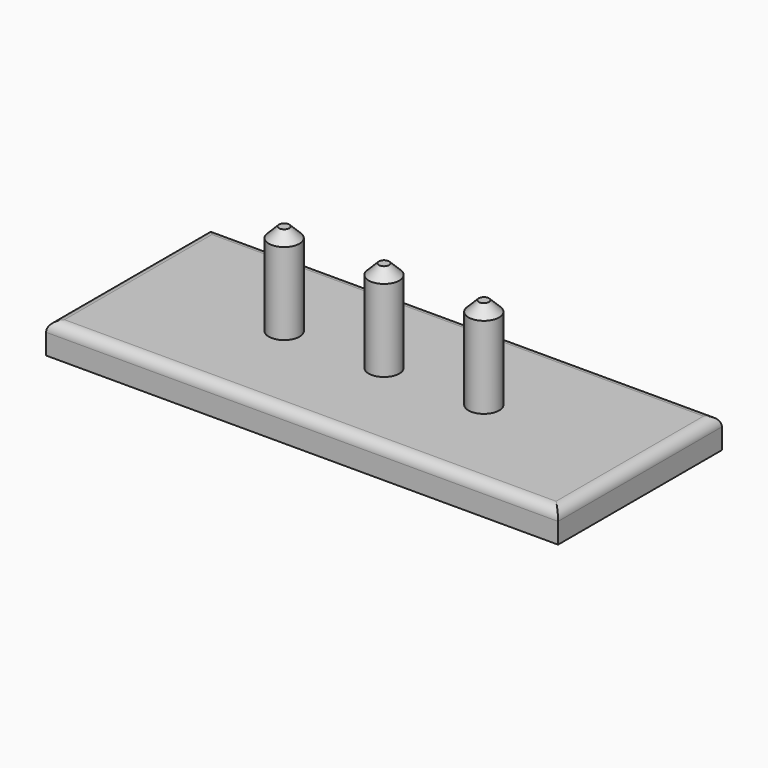
from build123d import *

# Parameters (mm, degrees)
F0_R     = 1.5
F1_DEPTH = 12
F0_W     = 50
F0_H     = 20
F2_DEPTH = 3
F3_R     = 1
F4_SIZE  = 1


with BuildPart() as f1:
    # F0 (on Top) → F1 (new body)
    with BuildSketch(Plane.XY):
        with Locations((34.75, 10)):
            Circle(F0_R)
        with Locations((25, 10)):
            Circle(F0_R)
        with Locations((15.25, 10)):
            Circle(F0_R)
    extrude(amount=F1_DEPTH)

    # F4
    f4_edges = [f1.edges().sort_by_distance(p)[0] for p in [
        (33.25, 10, 12),
        (23.5, 10, 12),
        (13.75, 10, 12),
    ]]
    chamfer(f4_edges, length=F4_SIZE)


with BuildPart() as f2:
    # F0 (on Top) → F2 (new body)
    with BuildSketch(Plane.XY):
        with Locations((25, 10)):
            Rectangle(F0_W, F0_H)
        with Locations((15.25, 10)):
            Circle(F0_R, mode=Mode.SUBTRACT)
        with Locations((25, 10)):
            Circle(F0_R, mode=Mode.SUBTRACT)
        with Locations((34.75, 10)):
            Circle(F0_R, mode=Mode.SUBTRACT)
    extrude(amount=F2_DEPTH)

    # F3
    f3_edges = [f2.edges().sort_by_distance(p)[0] for p in [
        (25, 0, 3),
        (0, 10, 3),
        (25, 20, 3),
        (50, 10, 3),
    ]]
    fillet(f3_edges, radius=F3_R)


solid = Compound([f1.part, f2.part])
